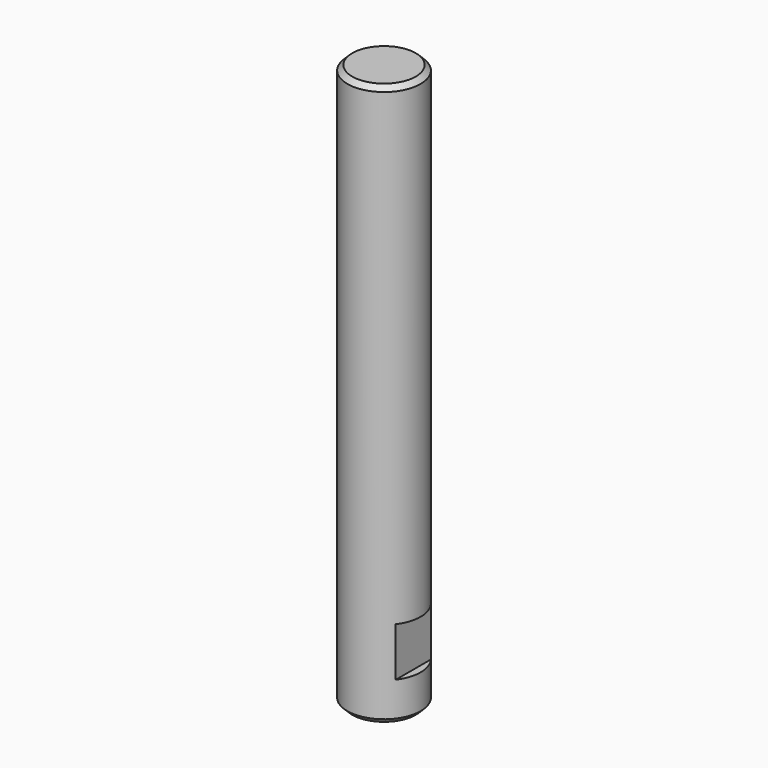
from build123d import *

# Parameters (mm, degrees)
F0_R          = 7.5
F1_DEPTH      = 115
F2_SIZE2      = 1
F2_SIZE       = 1
F3_W          = 1.5
F3_H          = 10
F4_DEPTH      = 7.501
F4_DEPTH_BACK = 7.501


with BuildPart() as f1:
    # F0 (on Top) → F1 (new body)
    with BuildSketch(Plane.XY):
        Circle(F0_R)
    extrude(amount=F1_DEPTH)

    # F2
    f2_edges = [f1.edges().sort_by_distance(p)[0] for p in [
        (-7.5, 0, 115),
        (-7.5, 0, 0),
    ]]
    chamfer(f2_edges, length=F2_SIZE, length2=F2_SIZE2)

    # F3 (on Front) → F4 (cut, two sides)
    with BuildSketch(Plane.XZ) as f4_sk:
        with Locations((6.75, 13)):
            Rectangle(F3_W, F3_H)
        with Locations((-6.75, 13)):
            Rectangle(F3_W, F3_H)
    extrude(amount=F4_DEPTH, mode=Mode.SUBTRACT)
    extrude(f4_sk.sketch, amount=-F4_DEPTH_BACK, mode=Mode.SUBTRACT)


solid = f1.part
